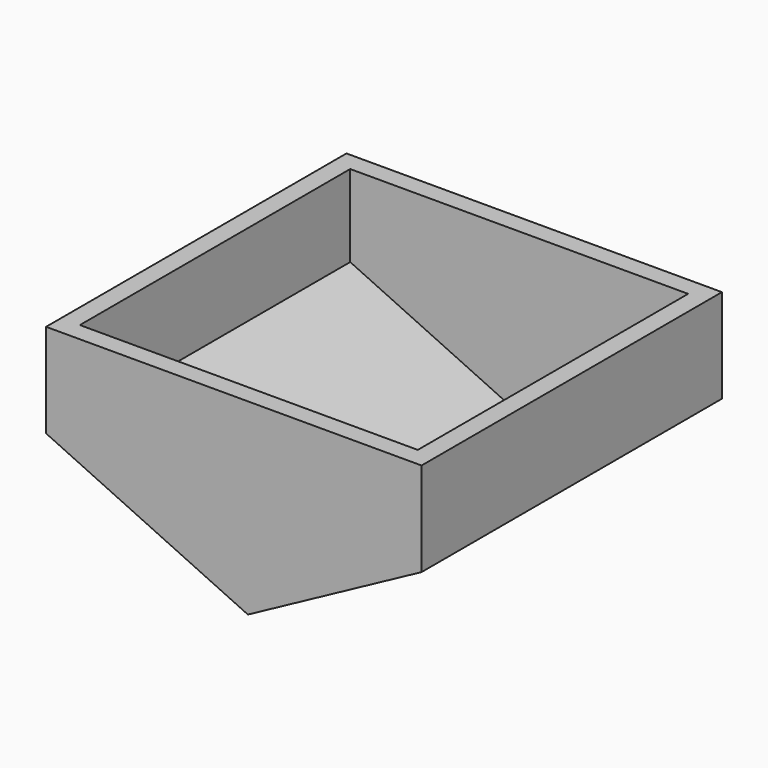
from build123d import *

# Parameters (mm, degrees)
F1_DEPTH = 50.8
F2_T     = -2.54


with BuildPart() as f1:
    # F0 (on Front) → F1 (new body)
    with BuildSketch(Plane.XZ):
        Polygon((23.497318, 12.7), (0, 12.7), (0, -12.7), (23.497318, 0), align=None)
        Polygon((0, 12.7), (-27.302682, 12.7), (-27.302682, 0), (0, -12.7), align=None)
    extrude(amount=F1_DEPTH)

    # F2
    f2_openings = [f1.faces().sort_by_distance(p)[0] for p in [
        (-1.902682, -25.4, 12.7),
    ]]
    offset(amount=F2_T, openings=f2_openings)


solid = f1.part
